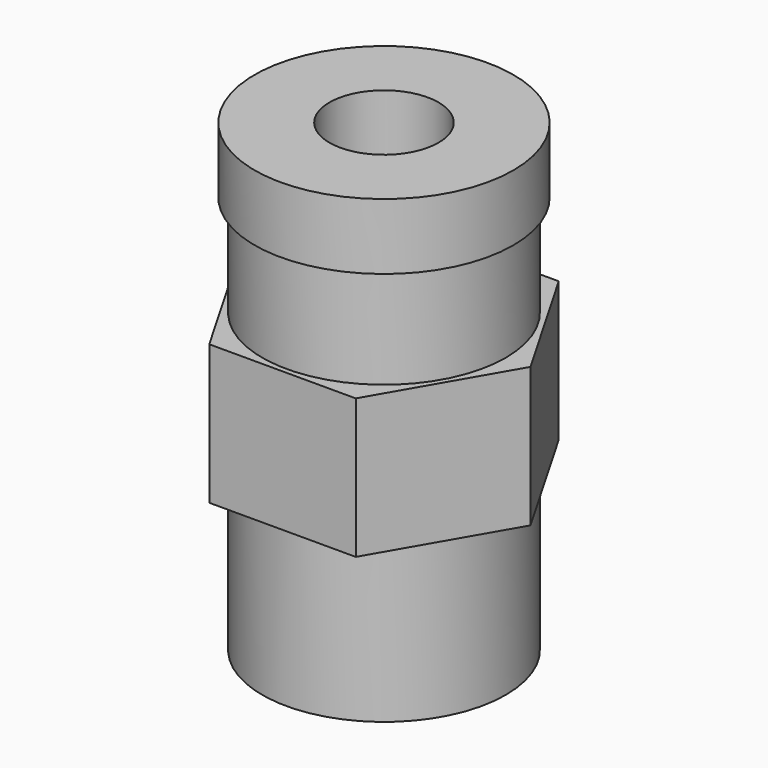
from build123d import *

# Parameters (mm, degrees)
F0_R     = 4.8
F1_DEPTH = 6.2
F2_R     = 4.8
F3_DEPTH = 5.5
F4_R     = 4.8
F5_DEPTH = 4
F6_R     = 5.1
F6_R_2   = 4.8
F7_DEPTH = 2.6
F8_R     = 2.15
F9_DEPTH = 18.301


with BuildPart() as f1:
    # F0 (on Top) → F1 (new body)
    with BuildSketch(Plane.XY):
        Circle(F0_R)
    extrude(amount=F1_DEPTH)

    # F2 (on face) → F3 (join)
    with BuildSketch(Plane.XY.offset(6.2)):
        Polygon((2.8867513459, -5), (5.7735026919, 0), (2.8867513459, 5), (-2.8867513459, 5), (-5.7735026919, 0), (-2.8867513459, -5), align=None)
        Circle(F2_R, mode=Mode.SUBTRACT)
        Circle(F2_R)
    extrude(amount=F3_DEPTH)

    # F4 (on face) → F5 (join)
    with BuildSketch(Plane.XY.offset(11.7)):
        Circle(F4_R)
    extrude(amount=F5_DEPTH)

    # F6 (on face) → F7 (join)
    with BuildSketch(Plane.XY.offset(15.7)):
        Circle(F6_R)
        Circle(F6_R_2, mode=Mode.SUBTRACT)
        Circle(F6_R_2)
    extrude(amount=F7_DEPTH)

    # F8 (on face) → F9 (cut, through all)
    with BuildSketch(Plane.XY.offset(18.3)):
        Circle(F8_R)
    extrude(amount=-F9_DEPTH, mode=Mode.SUBTRACT)


solid = f1.part
